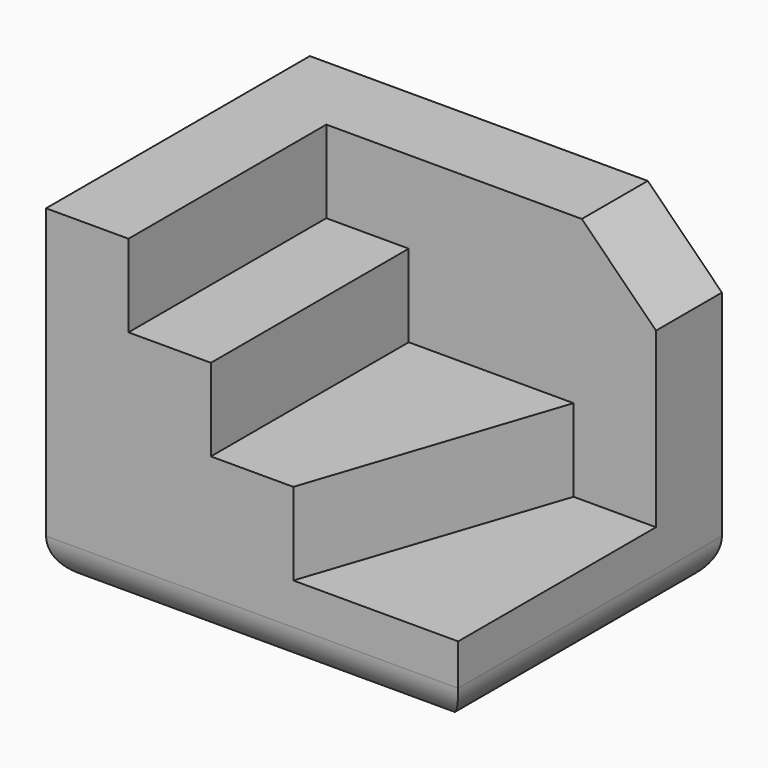
from build123d import *

# Parameters (mm, degrees)
F1_DEPTH = 40
F0_W     = 10
F0_H     = 30
F2_DEPTH = 30
F3_DEPTH = 20
F4_DEPTH = 10
F5_SIZE  = 9
F6_R     = 5


with BuildPart() as f1:
    # F0 (on Top) → F1 (new body)
    with BuildSketch(Plane.XY):
        Polygon((0, 40), (0, 0), (10, 0), (10, 30), (20, 30), (40, 30), (50, 30), (50, 40), align=None)
    extrude(amount=F1_DEPTH)

    # F0 (on Top) → F2 (join)
    with BuildSketch(Plane.XY):
        with Locations((15, 15)):
            Rectangle(F0_W, F0_H)
    extrude(amount=F2_DEPTH)

    # F0 (on Top) → F3 (join)
    with BuildSketch(Plane.XY):
        Polygon((20, 30), (20, 0), (30, 0), (40, 30), align=None)
    extrude(amount=F3_DEPTH)

    # F0 (on Top) → F4 (join)
    with BuildSketch(Plane.XY):
        Polygon((40, 30), (30, 0), (50, 0), (50, 30), align=None)
    extrude(amount=F4_DEPTH)

    # F5
    f5_edges = [f1.edges().sort_by_distance(p)[0] for p in [
        (50, 35, 40),
    ]]
    chamfer(f5_edges, length=F5_SIZE)

    # F6
    f6_edges = [f1.edges().sort_by_distance(p)[0] for p in [
        (50, 20, 0),
        (25, 0, 0),
        (0, 20, 0),
        (25, 40, 0),
    ]]
    fillet(f6_edges, radius=F6_R)


solid = f1.part
